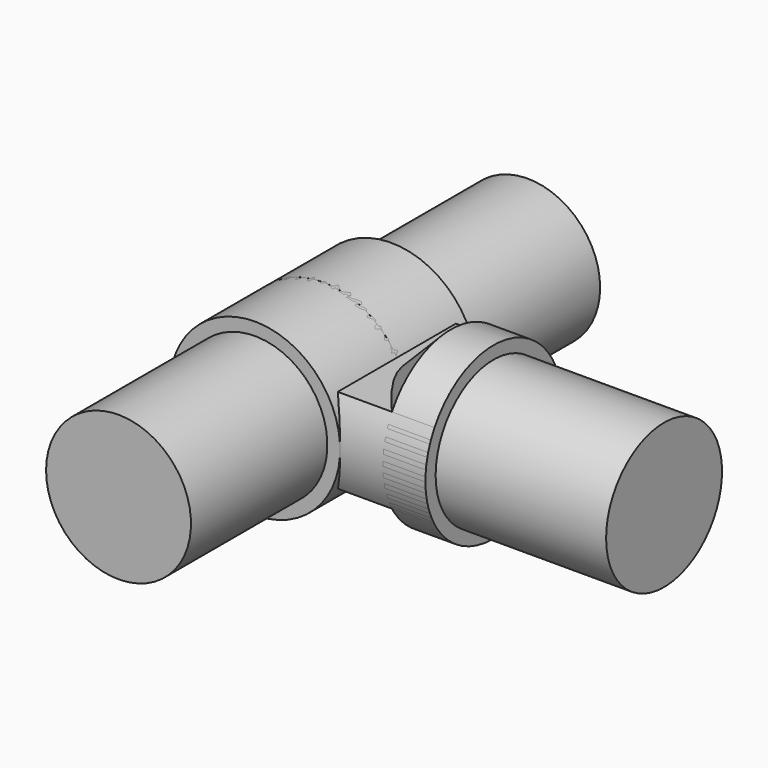
from build123d import *

# Parameters (mm, degrees)
CYLINDER004_R         = 8.5
CYLINDER004_DEPTH     = 30
CYLINDER003_R         = 10
CYLINDER003_DEPTH     = 10
CLONE_PLACEMENT_ANGLE = 180
CYLINDER005_R         = 8.5
CYLINDER005_DEPTH     = 20
CYLINDER_R            = 10
CYLINDER_DEPTH        = 20
BOX_W                 = 20
BOX_H                 = 20
BOX_DEPTH             = 10
CYLINDER006_R         = 10
CYLINDER006_DEPTH     = 5


with BuildPart() as sphere:
    # Sphere → Sphere (revolve)
    with BuildSketch(Plane.XZ):
        with BuildLine():
            ThreePointArc((0, -10), (10, 0), (0, 10))
            Line((0, 10), (0, -10))
        make_face()
    revolve(axis=Axis((0, 0, 0), (0, 0, 1)))


with BuildPart() as cylinder004:
    # Cylinder004 → Cylinder004 (new body)
    with BuildSketch(Plane(origin=(0, 0, 0), x_dir=(-1, 0, 0), z_dir=(0, -1, 0))):
        Circle(CYLINDER004_R)
    extrude(amount=CYLINDER004_DEPTH)


with BuildPart() as pipe_join:
    # Cylinder003 → Cylinder003 (new body)
    with BuildSketch(Plane(origin=(0, 0, 0), x_dir=(-1, 0, 0), z_dir=(0, -1, 0))):
        Circle(CYLINDER003_R)
    extrude(amount=CYLINDER003_DEPTH)

    # Fusion: union Cylinder004
    add(cylinder004.part)


with BuildPart() as pipe_join001:
    # Clone base: copy of Pipe Join
    add(pipe_join.part)


with BuildPart() as pipe_join001_1:
    # Clone placement: moved
    add(pipe_join001.part.rotate(Axis((0, 0, 0), (0, 0, 1)), CLONE_PLACEMENT_ANGLE))


with BuildPart() as cylinder005:
    # Cylinder005 → Cylinder005 (new body)
    with BuildSketch(Plane(origin=(20, 0, 0), x_dir=(0, -1, 0), z_dir=(1, 0, 0))):
        Circle(CYLINDER005_R)
    extrude(amount=CYLINDER005_DEPTH)


with BuildPart() as cone:
    # Cone → Cone (revolve)
    with BuildSketch(Plane(origin=(5, 0, 0), x_dir=(0, 0, -1), z_dir=(0, -1, 0))):
        Polygon((0, 0), (10, 10), (0, 10), align=None)
    revolve(axis=Axis((5, 0, 0), (1, 0, 0)))


with BuildPart() as cylinder:
    # Cylinder → Cylinder (new body)
    with BuildSketch(Plane(origin=(0, 0, 0), x_dir=(0, 0, -1), z_dir=(1, 0, 0))):
        Circle(CYLINDER_R)
    extrude(amount=CYLINDER_DEPTH)


with BuildPart() as common:
    # Box → Box (new body)
    with BuildSketch(Plane(origin=(0, -10, -5), x_dir=(1, 0, 0), z_dir=(0, 0, 1))):
        with Locations((10, 10)):
            Rectangle(BOX_W, BOX_H)
    extrude(amount=BOX_DEPTH)

    # Common: intersect Cylinder
    add(cylinder.part, mode=Mode.INTERSECT)


with BuildPart() as cylinder006:
    # Cylinder006 → Cylinder006 (new body)
    with BuildSketch(Plane(origin=(15, 0, 0), x_dir=(0, 0, -1), z_dir=(1, 0, 0))):
        Circle(CYLINDER006_R)
    extrude(amount=CYLINDER006_DEPTH)


solid = Compound([sphere.part, pipe_join.part, pipe_join001_1.part, cylinder005.part, cone.part, common.part, cylinder006.part])
